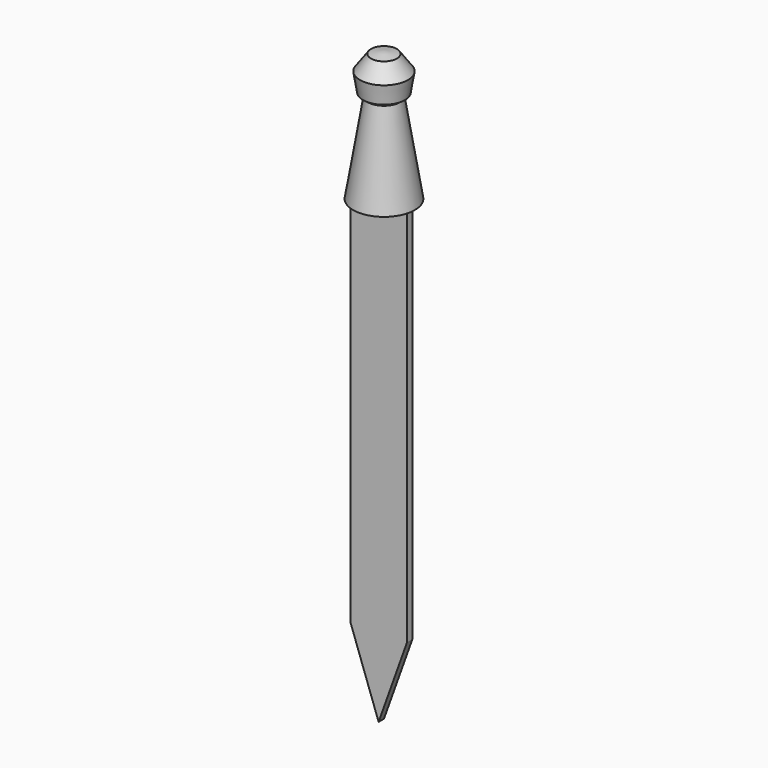
from build123d import *

# Parameters (mm, degrees)
F1_DEPTH = 1.778


with BuildPart() as f1:
    # F0 (on Front) → F1 (new body)
    with BuildSketch(Plane.XZ):
        Polygon((0, 45.367591), (-7.502817, 45.367591), (-7.502817, -55.158585), (0, -76.102346), (7.502817, -55.158585), (7.502817, 45.367591), align=None)
    extrude(amount=F1_DEPTH)

    # F2 (on Front) → F4 (revolve)
    with BuildSketch(Plane.XZ):
        Polygon((-8.16898, 45.349743), (0, 45.349743), (0, 79.756347), (-3.444137, 79.194357), (-6.368215, 75.129948), (-5.561879, 70.188342), (-4.263916, 69.254542), align=None)
    revolve(axis=Axis((0, 0, 61.601587), (0, 0, 1)))


solid = f1.part
